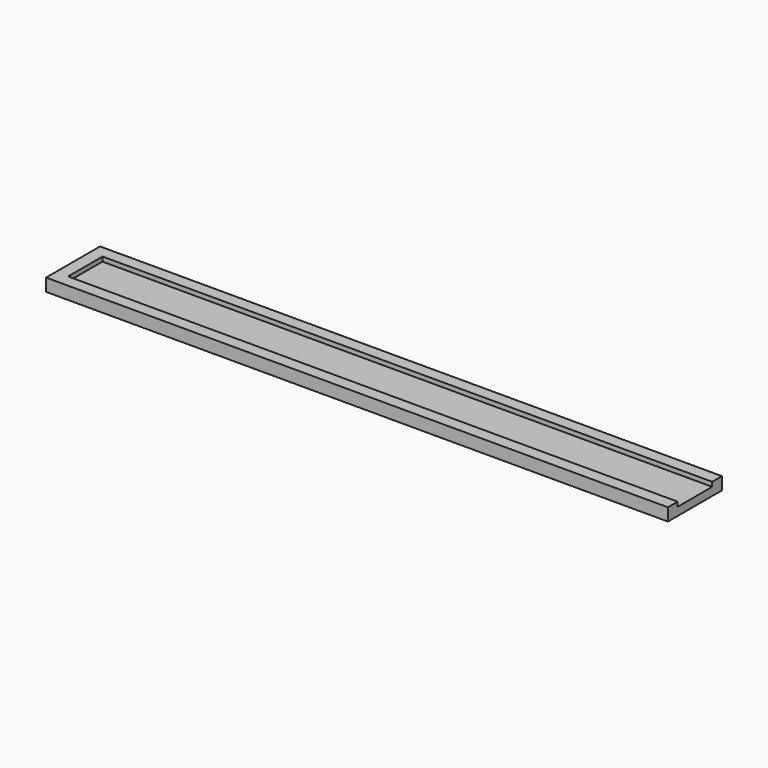
from build123d import *

# Parameters (mm, degrees)
F0_W     = 150
F0_H     = 3
F0_H_2   = 10.6
F1_DEPTH = 2
F2_DEPTH = 3.1


with BuildPart() as f1:
    # F0 (on Top) → F1 (new body)
    with BuildSketch(Plane.XY):
        with Locations((0, 6.8)):
            Rectangle(F0_W, F0_H)
        Rectangle(F0_W, F0_H_2)
        Polygon((-75, -5.3), (-75, 5.3), (-75, 8.3), (-78, 8.3), (-78, -8.3), (-75, -8.3), align=None)
        with Locations((0, -6.8)):
            Rectangle(F0_W, F0_H)
    extrude(amount=F1_DEPTH)

    # F0 (on Top) → F2 (join)
    with BuildSketch(Plane.XY):
        with Locations((0, 6.8)):
            Rectangle(F0_W, F0_H)
        Polygon((-75, -5.3), (-75, 5.3), (-75, 8.3), (-78, 8.3), (-78, -8.3), (-75, -8.3), align=None)
        with Locations((0, -6.8)):
            Rectangle(F0_W, F0_H)
    extrude(amount=F2_DEPTH)


solid = f1.part
